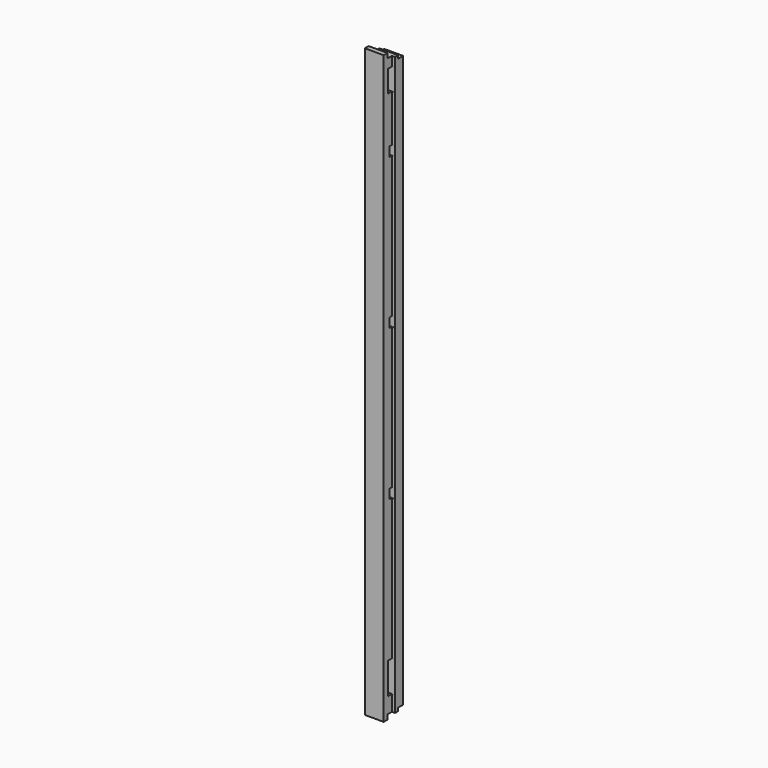
from build123d import *

# Parameters (mm, degrees)
SKETCH022_W     = 70
SKETCH022_H     = 65
PAD002_DEPTH    = 1870
POCKET024_DEPTH = 15
POCKET026_DEPTH = 15
SKETCH023_W     = 10
SKETCH023_H     = 30
POCKET019_DEPTH = 70.001
SKETCH024_W     = 20
SKETCH024_H     = 25
POCKET020_DEPTH = 3814.8775
SKETCH025_W     = 50
SKETCH025_H     = 15
POCKET021_DEPTH = 3814.8775
SKETCH029_W     = 10
SKETCH029_H     = 32
POCKET025_DEPTH = 1870.001
SKETCH031_W     = 10
SKETCH031_H     = 32.5
POCKET027_DEPTH = 1870.001


with BuildPart() as part:
    # Sketch022 (on DatumPlane) → Pad002 (new body)
    with BuildSketch(Plane.XY.offset(935)):
        Rectangle(SKETCH022_W, SKETCH022_H)
    extrude(amount=-PAD002_DEPTH)

    # Sketch028 (on DatumPlane) → Pocket024 (cut)
    with BuildSketch(Plane(origin=(0, 0.5, 0), x_dir=(-1, 0, 0), z_dir=(0, 1, 0))):
        Polygon((-35, 890), (15, 890), (15, 935), (35, 935), (35, 820), (-35, 820), align=None)
    extrude(amount=-POCKET024_DEPTH, mode=Mode.SUBTRACT)

    # Sketch030 (on DatumPlane) → Pocket026 (cut)
    with BuildSketch(Plane(origin=(0, 0.5, 0), x_dir=(-1, 0, 0), z_dir=(0, 1, 0))):
        Polygon((35, -770), (-35, -770), (-35, -870), (15, -870), (15, -935), (35, -935), align=None)
    extrude(amount=-POCKET026_DEPTH, mode=Mode.SUBTRACT)

    # Sketch023 (on DatumPlane) → Pocket019 (cut, through all)
    with BuildSketch(Plane.YZ.offset(35)):
        with Locations((-4.5, -305)):
            Rectangle(SKETCH023_W, SKETCH023_H)
        with Locations((-4.5, 175)):
            Rectangle(SKETCH023_W, SKETCH023_H)
        with Locations((-4.5, 655)):
            Rectangle(SKETCH023_W, SKETCH023_H)
    extrude(amount=-POCKET019_DEPTH, mode=Mode.SUBTRACT)

    # Sketch024 (on DatumPlane) → Pocket020 (cut, through all)
    with BuildSketch(Plane.YZ.offset(35)):
        with Locations((22.5, 922.5)):
            Rectangle(SKETCH024_W, SKETCH024_H)
    pocket020 = extrude(amount=-POCKET020_DEPTH, mode=Mode.SUBTRACT)

    # Sketch025 (on DatumPlane) → Pocket021 (cut, through all)
    with BuildSketch(Plane.YZ.offset(35)):
        with Locations((7.5, 927.5)):
            Rectangle(SKETCH025_W, SKETCH025_H)
    pocket021 = extrude(amount=-POCKET021_DEPTH, mode=Mode.SUBTRACT)

    # Mirrored003: Pocket020, Pocket021 across XY
    add(pocket020.mirror(Plane.XY), mode=Mode.SUBTRACT)
    add(pocket021.mirror(Plane.XY), mode=Mode.SUBTRACT)

    # Sketch029 (on DatumPlane) → Pocket025 (cut, through all)
    with BuildSketch(Plane.XY.offset(935)):
        with Locations((-30, 16.5)):
            Rectangle(SKETCH029_W, SKETCH029_H)
    extrude(amount=-POCKET025_DEPTH, mode=Mode.SUBTRACT)

    # Sketch031 (on DatumPlane) → Pocket027 (cut, through all)
    with BuildSketch(Plane.XY.offset(935)):
        with Locations((30, -16.25)):
            Rectangle(SKETCH031_W, SKETCH031_H)
    extrude(amount=-POCKET027_DEPTH, mode=Mode.SUBTRACT)


solid = part.part
